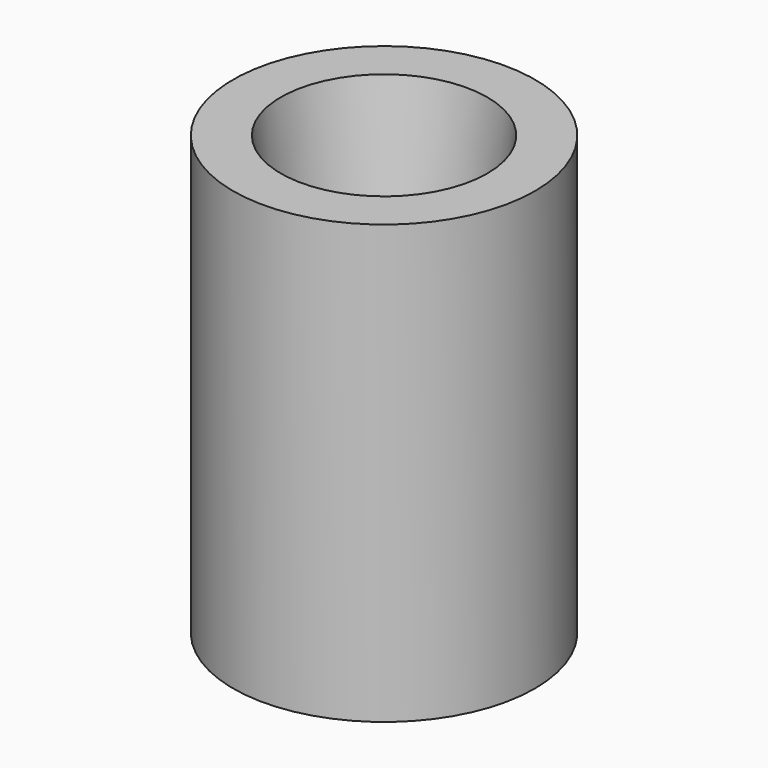
from build123d import *

# Parameters (mm, degrees)
F0_R     = 111.719633
F1_DEPTH = 324.142545
F3_R     = 32.006886
F2_R     = 76.439651


with BuildPart() as f1:
    # F0 (on Top) → F1 (new body)
    with BuildSketch(Plane.XY):
        Circle(F0_R)
    extrude(amount=F1_DEPTH)

    # F3 (on face) → F4 section 0
    with BuildSketch(Plane(origin=(0, 0, 0), x_dir=(1, 0, 0), z_dir=(0, 0, -1))):
        Circle(F3_R)
    # F2 (on face) → F4 section 1
    with BuildSketch(Plane.XY.offset(324.142545)):
        Circle(F2_R)
    loft(mode=Mode.SUBTRACT)


solid = f1.part
